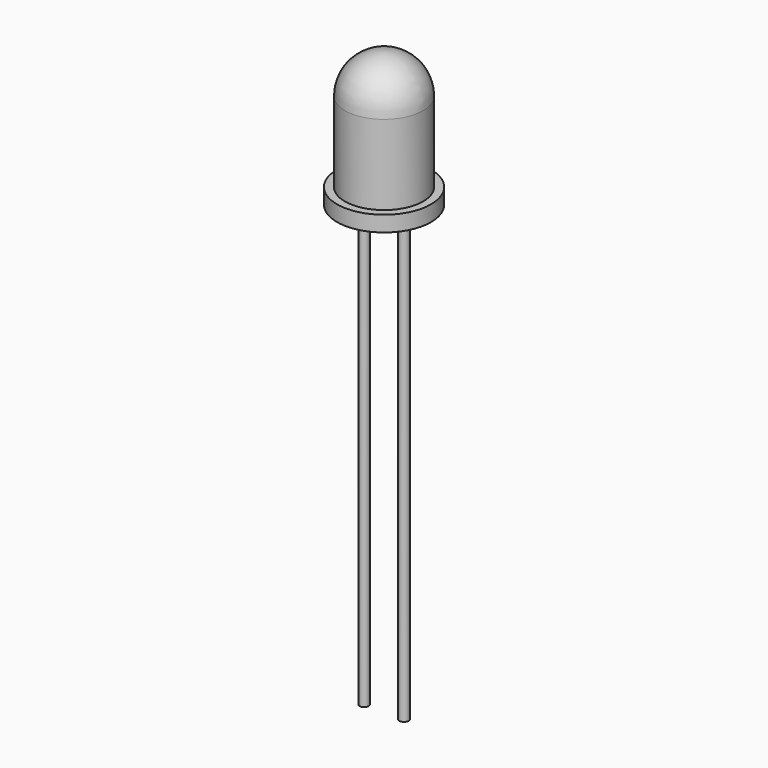
from build123d import *

# Parameters (mm, degrees)
F2_R     = 0.3
F2_R_2   = 0.289479
F3_DEPTH = 28.5


with BuildPart() as f1:
    # F0 (on Front) → F1 (revolve)
    with BuildSketch(Plane.XZ):
        with BuildLine():
            Line((0, 8.6), (0, 0))
            Line((0, 0), (3, 0))
            Line((3, 0), (3, 1))
            Line((3, 1), (2.5, 1))
            Line((2.5, 1), (2.5, 6.1))
            ThreePointArc((2.5, 6.1), (1.767767, 7.867767), (0, 8.6))
        make_face()
    revolve(axis=Axis((0, 0, 4.3), (0, 0, -1)))

    # F2 (on face) → F3 (join)
    with BuildSketch(Plane(origin=(0, 0, 0), x_dir=(1, 0, 0), z_dir=(0, 0, -1))):
        with Locations((1.27, 0)):
            Circle(F2_R)
        with Locations((-1.27, 0)):
            Circle(F2_R_2)
    extrude(amount=F3_DEPTH)


solid = f1.part
